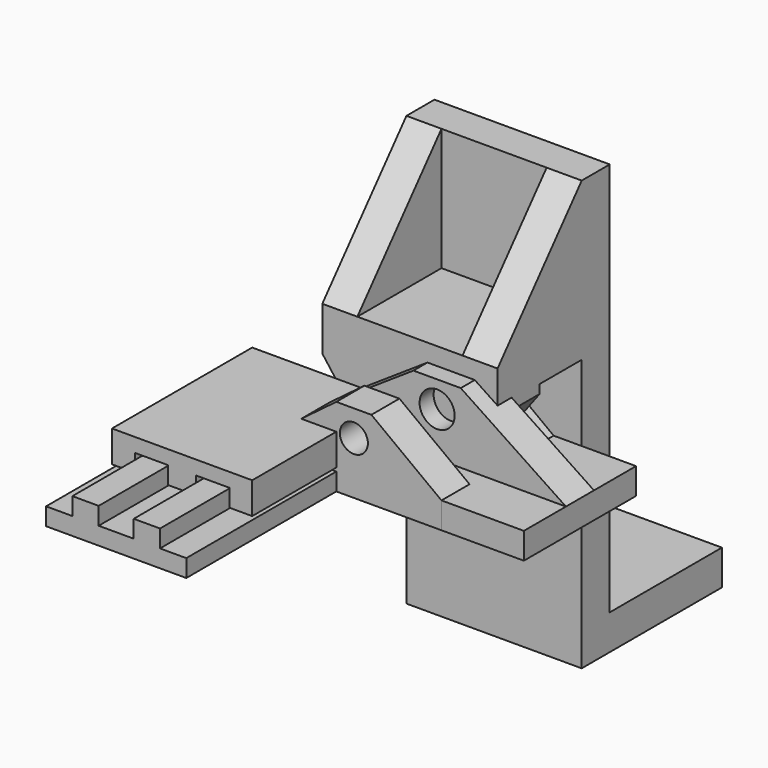
from build123d import *

# Parameters (mm, degrees)
F1_DEPTH    = 147
F2_SIZE2    = 60
F2_SIZE     = 40
F2_2_SIZE2  = 60
F2_2_SIZE   = 40
F3_R        = 10
F4_DEPTH    = 50.001
F6_DEPTH    = 147
F7_DEPTH    = 100
F9_DEPTH    = 100
F10_R       = 8
F11_DEPTH   = 80.001
F12_SIZE2   = 40
F12_SIZE    = 30
F13_SIZE2   = 30
F13_SIZE    = 40
F13_2_SIZE2 = 30
F13_2_SIZE  = 40
F15_DEPTH   = 100
F16_R       = 8
F17_DEPTH   = 30
F18_SIZE2   = 30
F18_SIZE    = 40
F19_SIZE2   = 40
F19_SIZE    = 30
F21_DEPTH   = 20
F23_DEPTH   = 20


with BuildPart() as f1:
    # F0 (on Right) → F1 (new body)
    with BuildSketch(Plane.YZ):
        Polygon((-40, 0), (0, 0), (40, 0), (40, 15), (10, 15), (10, 55), (-10, 55), (-10, 15), (-40, 15), align=None)
    extrude(amount=F1_DEPTH)

    # F2
    f2_edges = [f1.edges().sort_by_distance(p)[0] for p in [
        (147, 0, 55),
    ]]
    f2_side = f1.faces().sort_by_distance((147, 0, 18.5))[0]
    chamfer(f2_edges, length=F2_SIZE, length2=F2_SIZE2, reference=f2_side)

    # F2#2
    f2_2_edges = [f1.edges().sort_by_distance(p)[0] for p in [
        (0, 0, 55),
    ]]
    f2_2_side = f1.faces().sort_by_distance((0, 0, 18.5))[0]
    chamfer(f2_2_edges, length=F2_2_SIZE, length2=F2_2_SIZE2, reference=f2_2_side)

    # F3 (on face) → F4 (cut, through all)
    with BuildSketch(Plane.XZ.offset(10)):
        with Locations((73.5, 40)):
            Circle(F3_R)
    extrude(amount=-F4_DEPTH, mode=Mode.SUBTRACT)


with BuildPart() as f6:
    # F5 (on Front) → F6 (new body)
    with BuildSketch(Plane.XZ):
        Polygon((-40, 0), (0, 0), (40, 0), (40, 10), (25, 10), (25, 20), (10, 20), (10, 10), (-10, 10), (-10, 20), (-25, 20), (-25, 10), (-40, 10), align=None)
    extrude(amount=F6_DEPTH)


with BuildPart() as f7:
    # F5 (on Front) → F7 (new body)
    with BuildSketch(Plane.XZ):
        Polygon((-40, 30), (-40, 12), (-27, 12), (-27, 22), (-8, 22), (-8, 12), (8, 12), (8, 22), (27, 22), (27, 12), (40, 12), (40, 30), align=None)
    extrude(amount=F7_DEPTH)


with BuildPart() as f9:
    # F8 (on Right) → F9 (new body)
    with BuildSketch(Plane.YZ):
        Polygon((-40, 0), (0, 0), (40, 0), (40, 45), (20, 45), (20, 10), (-20, 10), (-20, 45), (-40, 45), align=None)
    extrude(amount=F9_DEPTH)

    # F10 (on face) → F11 (cut, through all)
    with BuildSketch(Plane.XZ.offset(40)):
        with Locations((50, 30)):
            Circle(F10_R)
    extrude(amount=-F11_DEPTH, mode=Mode.SUBTRACT)

    # F12
    f12_edges = [f9.edges().sort_by_distance(p)[0] for p in [
        (100, -30, 45),
        (100, 30, 45),
    ]]
    f12_side = f9.faces().sort_by_distance((100, 0, 0.917878))[0]
    chamfer(f12_edges, length=F12_SIZE, length2=F12_SIZE2, reference=f12_side)

    # F13
    f13_edges = [f9.edges().sort_by_distance(p)[0] for p in [
        (0, 30, 45),
    ]]
    f13_side = f9.faces().sort_by_distance((30, 30, 45))[0]
    chamfer(f13_edges, length=F13_SIZE, length2=F13_SIZE2, reference=f13_side)

    # F13#2
    f13_2_edges = [f9.edges().sort_by_distance(p)[0] for p in [
        (0, -30, 45),
    ]]
    f13_2_side = f9.faces().sort_by_distance((30, -30, 45))[0]
    chamfer(f13_2_edges, length=F13_2_SIZE, length2=F13_2_SIZE2, reference=f13_2_side)


with BuildPart() as f15:
    # F14 (on Right) → F15 (new body)
    with BuildSketch(Plane.YZ):
        Polygon((0, 65), (0, 0), (30, 0), (30, 45), (60, 45), (60, -110), (160, -110), (160, -90), (80, -90), (80, 135), (60, 135), (60, 65), align=None)
    extrude(amount=F15_DEPTH)

    # F16 (on face) → F17 (cut, through all)
    with BuildSketch(Plane.XZ):
        with Locations((50, 15)):
            Circle(F16_R)
    extrude(amount=-F17_DEPTH, mode=Mode.SUBTRACT)

    # F18
    f18_edges = [f15.edges().sort_by_distance(p)[0] for p in [
        (100, 15, 0),
    ]]
    f18_side = f15.faces().sort_by_distance((100, 65.331492, -0.262431))[0]
    chamfer(f18_edges, length=F18_SIZE, length2=F18_SIZE2, reference=f18_side)

    # F19
    f19_edges = [f15.edges().sort_by_distance(p)[0] for p in [
        (0, 15, 0),
    ]]
    f19_side = f15.faces().sort_by_distance((35, 15, 0))[0]
    chamfer(f19_edges, length=F19_SIZE, length2=F19_SIZE2, reference=f19_side)

    # F20 (on face) → F21 (join)
    with BuildSketch(Plane.YZ.offset(100)):
        Polygon((60, 135), (0, 65), (60, 65), align=None)
    extrude(amount=-F21_DEPTH)

    # F22 (on face) → F23 (join)
    with BuildSketch(Plane(origin=(0, 0, 0), x_dir=(0, -1, 0), z_dir=(-1, 0, 0))):
        Polygon((0, 65), (-60, 135), (-60, 65), align=None)
    extrude(amount=-F23_DEPTH)


solid = Compound([f1.part, f6.part, f7.part, f9.part, f15.part])
